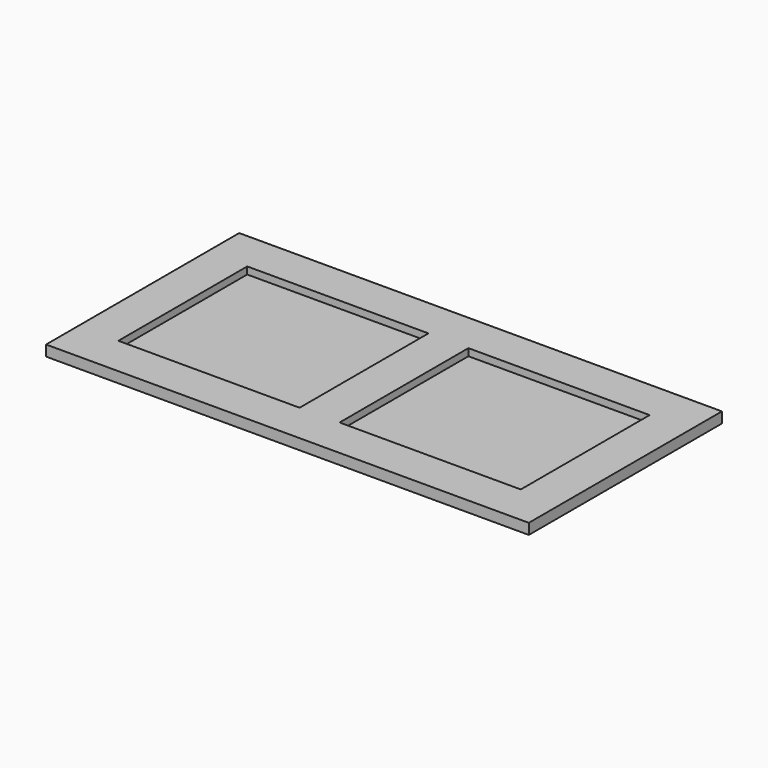
from build123d import *

# Parameters (mm, degrees)
F0_W     = 2440
F0_H     = 1220
F1_DEPTH = 54
F0_W_2   = 202
F0_H_2   = 814
F2_DEPTH = 54
F0_W_3   = 916
F3_DEPTH = 18


with BuildPart() as f1:
    # F0 (on Top) → F1 (new body)
    with BuildSketch(Plane.XY):
        with Locations((-1220, 610)):
            Rectangle(F0_W, F0_H)
        Polygon((-2237, 203), (-2237, 1017), (-1321, 1017), (-1119, 1017), (-203, 1017), (-203, 203), (-1119, 203), (-1321, 203), align=None, mode=Mode.SUBTRACT)
    extrude(amount=F1_DEPTH)

    # F0 (on Top) → F2 (join)
    with BuildSketch(Plane.XY):
        with Locations((-1220, 610)):
            Rectangle(F0_W_2, F0_H_2)
    extrude(amount=F2_DEPTH)

    # F0 (on Top) → F3 (join)
    with BuildSketch(Plane.XY):
        with Locations((-1779, 610)):
            Rectangle(F0_W_3, F0_H_2)
        with Locations((-661, 610)):
            Rectangle(F0_W_3, F0_H_2)
    extrude(amount=F3_DEPTH)


solid = f1.part
